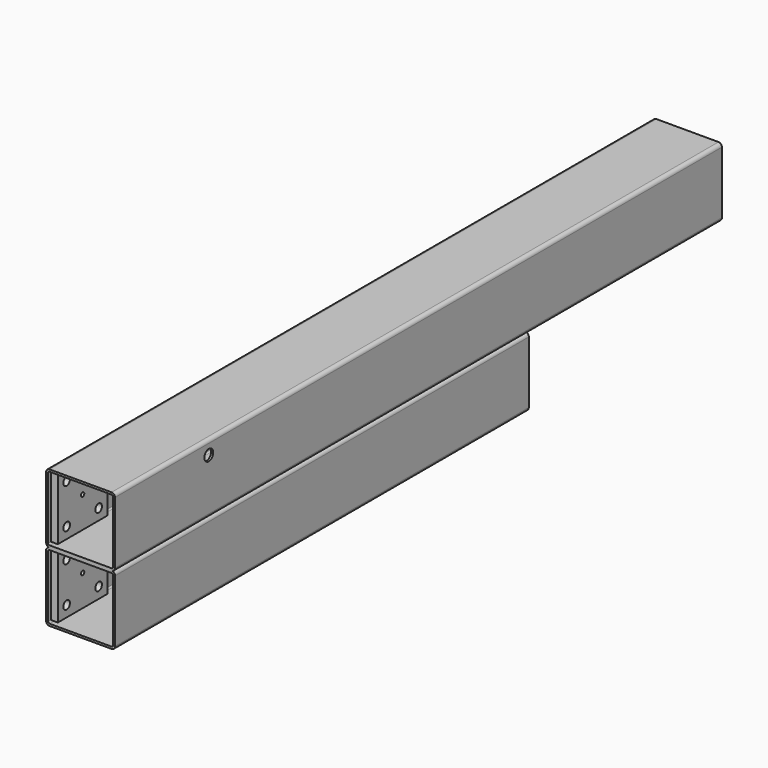
from build123d import *

# Parameters (mm, degrees)
F1_DEPTH = 1100
F2_R     = 8
F3_DEPTH = 3
F4_W     = 350
F4_H     = 90
F4_H_2   = 5
F5_DEPTH = 100.001
F7_START = -87
F6_W     = 90
F6_H     = 90
F6_R     = 6
F6_R_2   = 3
F7_DEPTH = 10
F8_W     = 90
F8_H     = 90
F8_R     = 6
F8_R_2   = 3
F9_DEPTH = 13


with BuildPart() as f1:
    # F0 (on Front) → F1 (new body)
    with BuildSketch(Plane.XZ):
        with BuildLine():
            ThreePointArc((50, 45), (48.5355339059, 48.5355339059), (45, 50))
            Line((45, 50), (-45, 50))
            ThreePointArc((-45, 50), (-48.5355339059, 48.5355339059), (-50, 45))
            Line((-50, 45), (-50, -45))
            ThreePointArc((-50, -45), (-48.5355339059, -48.5355339059), (-45, -50))
            Line((-45, -50), (45, -50))
            ThreePointArc((45, -50), (48.5355339059, -48.5355339059), (50, -45))
            Line((50, -45), (50, 45))
        make_face()
        with BuildLine():
            ThreePointArc((-47, 45), (-46.4142135624, 46.4142135624), (-45, 47))
            Line((-45, 47), (45, 47))
            ThreePointArc((45, 47), (46.4142135624, 46.4142135624), (47, 45))
            Line((47, 45), (47, -45))
            ThreePointArc((47, -45), (46.4142135624, -46.4142135624), (45, -47))
            Line((45, -47), (-45, -47))
            ThreePointArc((-45, -47), (-46.4142135624, -46.4142135624), (-47, -45))
            Line((-47, -45), (-47, 45))
        make_face(mode=Mode.SUBTRACT)
        with BuildLine():
            ThreePointArc((50, -55), (48.5355339059, -51.4644660941), (45, -50))
            Line((45, -50), (-45, -50))
            ThreePointArc((-45, -50), (-48.5355339059, -51.4644660941), (-50, -55))
            Line((-50, -55), (-50, -145))
            ThreePointArc((-50, -145), (-48.5355339059, -148.5355339059), (-45, -150))
            Line((-45, -150), (45, -150))
            ThreePointArc((45, -150), (48.5355339059, -148.5355339059), (50, -145))
            Line((50, -145), (50, -55))
        make_face()
        with BuildLine():
            ThreePointArc((-47, -55), (-46.4142135624, -53.5857864376), (-45, -53))
            Line((-45, -53), (45, -53))
            ThreePointArc((45, -53), (46.4142135624, -53.5857864376), (47, -55))
            Line((47, -55), (47, -145))
            ThreePointArc((47, -145), (46.4142135624, -146.4142135624), (45, -147))
            Line((45, -147), (-45, -147))
            ThreePointArc((-45, -147), (-46.4142135624, -146.4142135624), (-47, -145))
            Line((-47, -145), (-47, -55))
        make_face(mode=Mode.SUBTRACT)
    extrude(amount=-F1_DEPTH)

    # F2 (on face) → F3 (cut, through all)
    with BuildSketch(Plane.YZ.offset(50)):
        with Locations((170, 30)):
            Circle(F2_R)
    extrude(amount=-F3_DEPTH, mode=Mode.SUBTRACT)

    # F4 (on face) → F5 (cut, through all)
    with BuildSketch(Plane.YZ.offset(50)):
        with Locations((925, -100)):
            Rectangle(F4_W, F4_H)
        with Locations((925, -147.5)):
            Rectangle(F4_W, F4_H_2)
        with Locations((925, -52.5)):
            Rectangle(F4_W, F4_H_2)
    extrude(amount=-F5_DEPTH, mode=Mode.SUBTRACT)

    # F6 (on face) → F7 (join)
    with BuildSketch(Plane.YZ.offset(50).offset(F7_START)):
        with Locations((50, 0)):
            Rectangle(F6_W, F6_H)
        with Locations((21, -29)):
            Circle(F6_R, mode=Mode.SUBTRACT)
        with Locations((21, 29)):
            Circle(F6_R, mode=Mode.SUBTRACT)
        with Locations((79, -29)):
            Circle(F6_R, mode=Mode.SUBTRACT)
        with Locations((50, 0)):
            Circle(F6_R_2, mode=Mode.SUBTRACT)
        with Locations((79, 29)):
            Circle(F6_R, mode=Mode.SUBTRACT)
        with Locations((50, -100)):
            Rectangle(F6_W, F6_H)
        with Locations((21, -129)):
            Circle(F6_R, mode=Mode.SUBTRACT)
        with Locations((21, -71)):
            Circle(F6_R, mode=Mode.SUBTRACT)
        with Locations((50, -100)):
            Circle(F6_R_2, mode=Mode.SUBTRACT)
        with Locations((79, -129)):
            Circle(F6_R, mode=Mode.SUBTRACT)
        with Locations((79, -71)):
            Circle(F6_R, mode=Mode.SUBTRACT)
    extrude(amount=-F7_DEPTH)

    # F8 (on face) → F9 (join)
    with BuildSketch(Plane(origin=(0, 0, -50), x_dir=(1, 0, 0), z_dir=(0, 0, -1))):
        with Locations((0, -930)):
            Rectangle(F8_W, F8_H)
        with Locations((-29, -959)):
            Circle(F8_R, mode=Mode.SUBTRACT)
        with Locations((0, -930)):
            Circle(F8_R_2, mode=Mode.SUBTRACT)
        with Locations((29, -959)):
            Circle(F8_R, mode=Mode.SUBTRACT)
        with Locations((-29, -901)):
            Circle(F8_R, mode=Mode.SUBTRACT)
        with Locations((29, -901)):
            Circle(F8_R, mode=Mode.SUBTRACT)
    extrude(amount=-F9_DEPTH)


solid = f1.part
